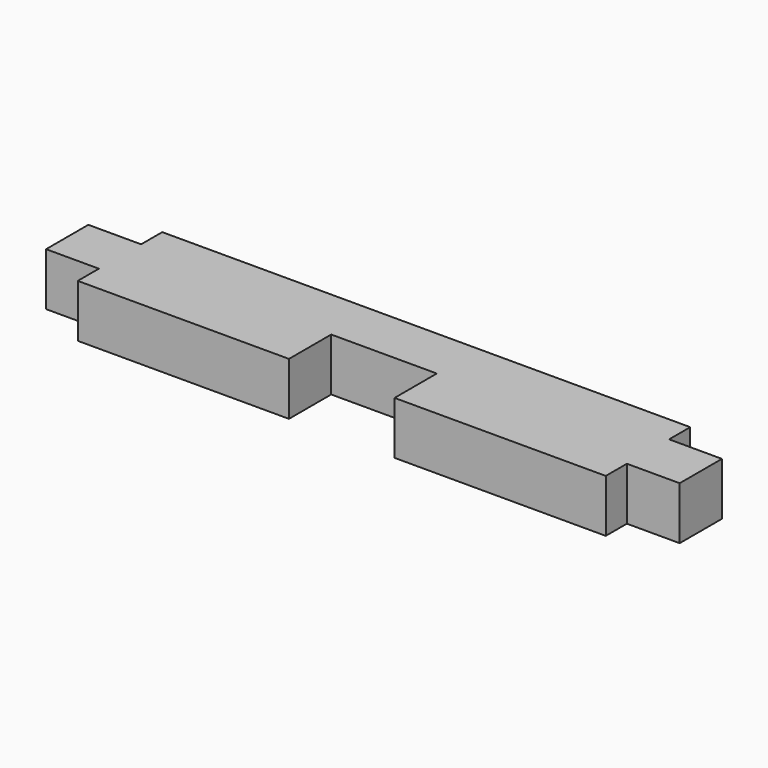
from build123d import *

# Parameters (mm, degrees)
F1_DEPTH = 6.35


with BuildPart() as f1:
    # F0 (on Top) → F1 (new body)
    with BuildSketch(Plane.XY):
        Polygon((69.85, 0), (6.35, 0), (6.35, -3.175), (0, -3.175), (0, -9.525), (6.35, -9.525), (6.35, -12.7), (31.75, -12.7), (31.75, -6.35), (44.45, -6.35), (44.45, -12.7), (69.85, -12.7), (69.85, -9.525), (76.2, -9.525), (76.2, -3.175), (69.85, -3.175), align=None)
    extrude(amount=F1_DEPTH)


solid = f1.part
